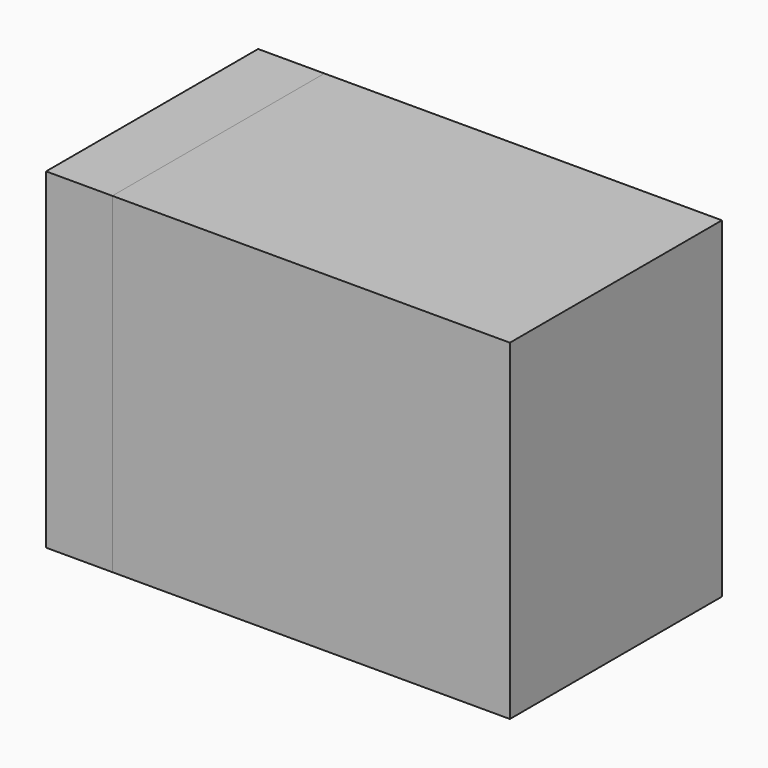
from build123d import *

# Parameters (mm, degrees)
SKETCH_W     = 1.2
SKETCH_H     = 0.8
PAD_DEPTH    = 1
SKETCH001_W  = 0.2
SKETCH001_H  = 0.8
PAD001_DEPTH = 1


with BuildPart() as body:
    # Sketch → Pad (new body)
    with BuildSketch(Plane.XY):
        Rectangle(SKETCH_W, SKETCH_H)
    extrude(amount=PAD_DEPTH)


with BuildPart() as body001:
    # Sketch001 → Pad001 (new body)
    with BuildSketch(Plane.XY):
        with Locations((0.7, 0)):
            Rectangle(SKETCH001_W, SKETCH001_H)
    extrude(amount=PAD001_DEPTH)


with BuildPart() as part_mirroring:
    # Part__Mirroring: instance of Body001
    add(body001.part.mirror(Plane(origin=(0, 0, 0), x_dir=(0, -1, 0), z_dir=(1, 0, 0))))


solid = Compound([body.part, part_mirroring.part])
